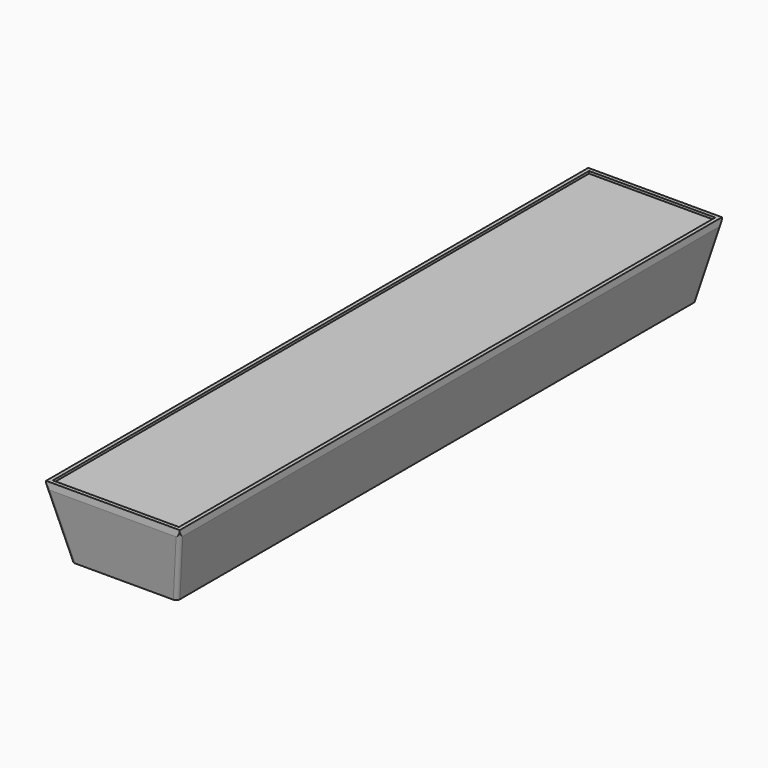
from build123d import *

# Parameters (mm, degrees)
F1_W     = 28.5
F1_H     = 144.5
F1_W_2   = 26.9
F1_H_2   = 142.9
F2_DEPTH = 0.5
F3_DEPTH = 15
F4_SIZE2 = 14
F4_SIZE  = 3
F5_R     = 0.8
F7_DEPTH = 10


with BuildPart() as f2:
    # F1 (on Top) → F2 (new body)
    with BuildSketch(Plane.XY):
        Rectangle(F1_W, F1_H)
        Rectangle(F1_W_2, F1_H_2, mode=Mode.SUBTRACT)
    extrude(amount=F2_DEPTH)

    # F1 (on Top) → F3 (join)
    with BuildSketch(Plane.XY):
        Rectangle(F1_W, F1_H)
        Rectangle(F1_W_2, F1_H_2, mode=Mode.SUBTRACT)
        Rectangle(F1_W_2, F1_H_2)
    extrude(amount=-F3_DEPTH)

    # F4
    f4_edges = [f2.edges().sort_by_distance(p)[0] for p in [
        (0, -72.25, -15),
        (14.25, 0, -15),
        (0, 72.25, -15),
        (-14.25, 0, -15),
    ]]
    f4_side = f2.faces().sort_by_distance((0, 0, -15))[0]
    chamfer(f4_edges, length=F4_SIZE, length2=F4_SIZE2, reference=f4_side)

    # F5
    f5_edges = [f2.edges().sort_by_distance(p)[0] for p in [
        (12.75, 70.75, -8),
        (-12.75, 70.75, -8),
        (12.75, -70.75, -8),
        (-12.75, -70.75, -8),
    ]]
    fillet(f5_edges, radius=F5_R)

    # F6 (on face) → F7 (cut)
    with BuildSketch(Plane(origin=(0, 0, -15), x_dir=(1, 0, 0), z_dir=(0, 0, -1))):
        Polygon((-8.55, 39.1863448016), (-8.55, 29.3136551984), (0, 24.3773103969), (8.55, 29.3136551984), (8.55, 39.1863448016), (0, 44.1226896031), align=None)
        Polygon((-8.55, -39.1863448016), (0, -44.1226896031), (8.55, -39.1863448016), (8.55, -29.3136551984), (0, -24.3773103969), (-8.55, -29.3136551984), align=None)
    extrude(amount=-F7_DEPTH, mode=Mode.SUBTRACT)


solid = f2.part
